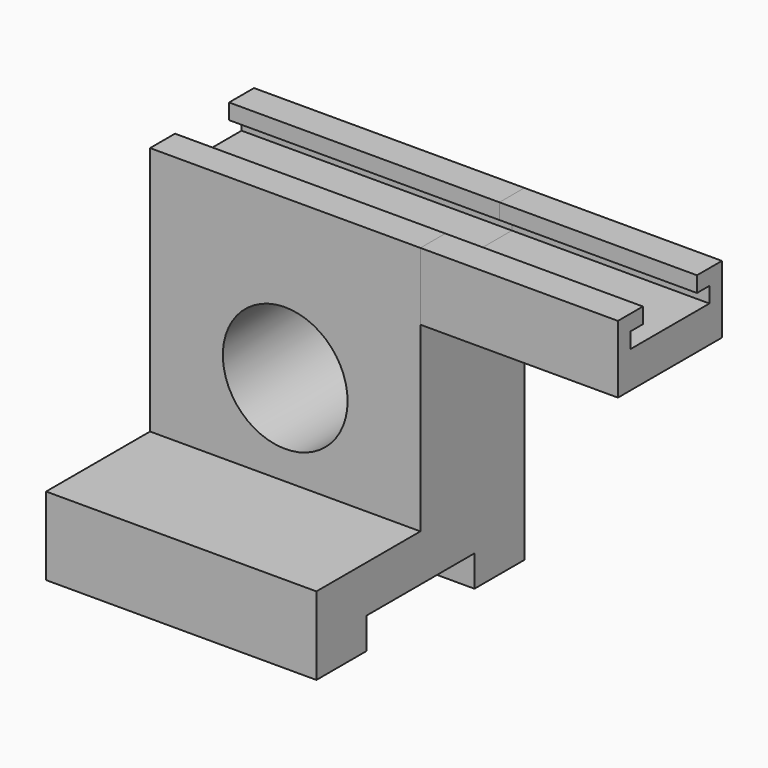
from build123d import *

# Parameters (mm, degrees)
F1_DEPTH = 104
F2_DEPTH = 76
F3_R     = 24
F4_DEPTH = 50


with BuildPart() as f1:
    # F0 (on Right) → F1 (new body)
    with BuildSketch(Plane.YZ):
        Polygon((26, 12), (26, 0), (50, 0), (50, 100), (0, 100), (0, 30), (-50, 30), (-50, 0), (-26, 0), (-26, 12), align=None)
        Polygon((0, 100), (50, 100), (50, 126), (38, 126), (38, 120), (44, 120), (44, 114), (6, 114), (6, 120), (12, 120), (12, 126), (0, 126), align=None)
    extrude(amount=-F1_DEPTH)

    # F3 (on face) → F4 (cut)
    with BuildSketch(Plane.XZ):
        with Locations((-52, 65)):
            Circle(F3_R)
    extrude(amount=-F4_DEPTH, mode=Mode.SUBTRACT)


with BuildPart() as f2:
    # F0 (on Right) → F2 (new body)
    with BuildSketch(Plane.YZ):
        Polygon((0, 100), (50, 100), (50, 126), (38, 126), (38, 120), (44, 120), (44, 114), (6, 114), (6, 120), (12, 120), (12, 126), (0, 126), align=None)
    extrude(amount=F2_DEPTH)


solid = Compound([f1.part, f2.part])
